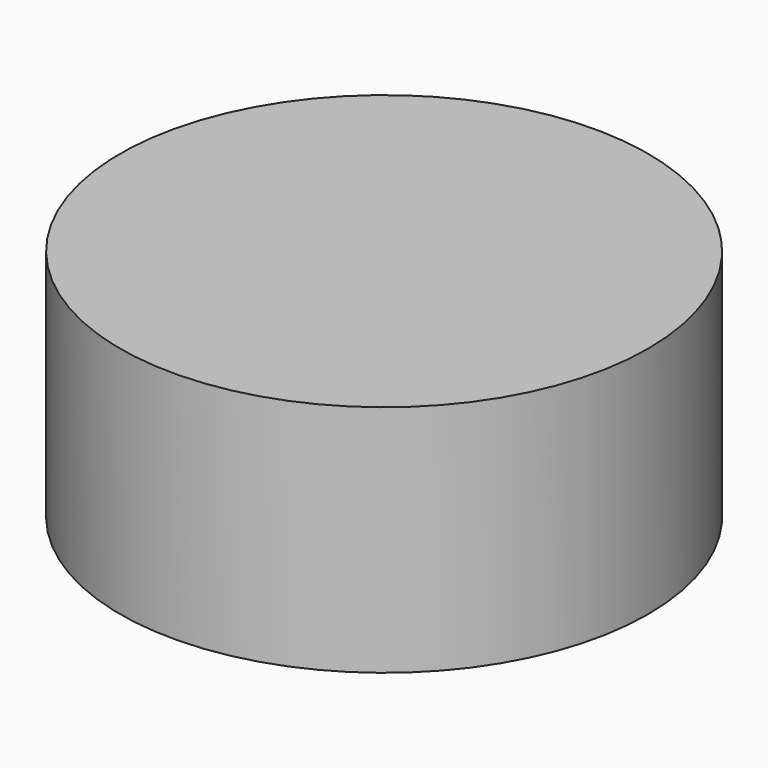
from build123d import *

# Parameters (mm, degrees)
F1_R     = 18.3466580563
F2_DEPTH = 25.4
F0_R     = 28.6758128963


with BuildPart() as f2:
    # F1 (on Top) → F2 (new body)
    with BuildSketch(Plane.XY):
        Circle(F1_R)
    extrude(amount=F2_DEPTH)


with BuildPart() as f2b:
    # F0 (on Top) → F2, piece 2 (new body)
    with BuildSketch(Plane.XY):
        Circle(F0_R)
    extrude(amount=F2_DEPTH)


solid = Compound([f2.part, f2b.part])
